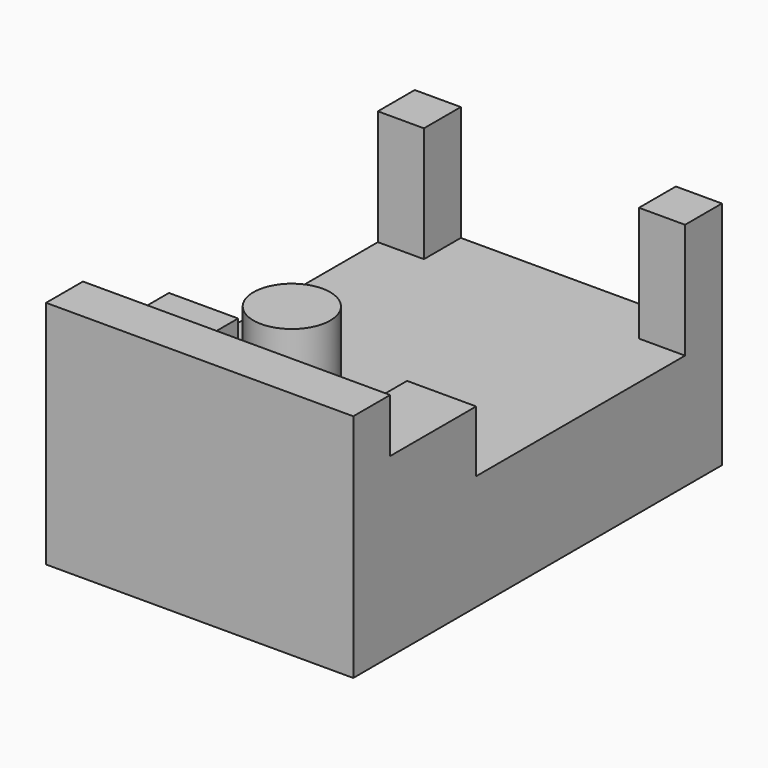
from build123d import *

# Parameters (mm, degrees)
F0_W     = 50.8
F0_H     = 76.2
F1_DEPTH = 19.05
F3_R     = 6.35
F4_DEPTH = 19.05
F2_W     = 11.43
F2_H     = 17.78
F5_DEPTH = 8.89


with BuildPart() as f1:
    # F0 (on Top) → F1 (new body, symmetric)
    with BuildSketch(Plane.XY):
        Rectangle(F0_W, F0_H)
    extrude(amount=F1_DEPTH, both=True)

    # F3 (on face) → F4 (cut)
    with BuildSketch(Plane.XY.offset(19.05)):
        Polygon((-17.78, 38.1), (-17.78, 30.48), (-25.4, 30.48), (-25.4, -12.7), (-13.97, -12.7), (-13.97, -30.48), (13.97, -30.48), (13.97, -12.7), (25.4, -12.7), (25.4, 30.48), (17.78, 30.48), (17.78, 38.1), align=None)
        with Locations((0, -19.05)):
            Circle(F3_R, mode=Mode.SUBTRACT)
    extrude(amount=-F4_DEPTH, mode=Mode.SUBTRACT)

    # F2 (on face) → F5 (cut)
    with BuildSketch(Plane.XY.offset(19.05)):
        with Locations((19.685, -21.59)):
            Rectangle(F2_W, F2_H)
        with Locations((-19.685, -21.59)):
            Rectangle(F2_W, F2_H)
    extrude(amount=-F5_DEPTH, mode=Mode.SUBTRACT)


solid = f1.part
